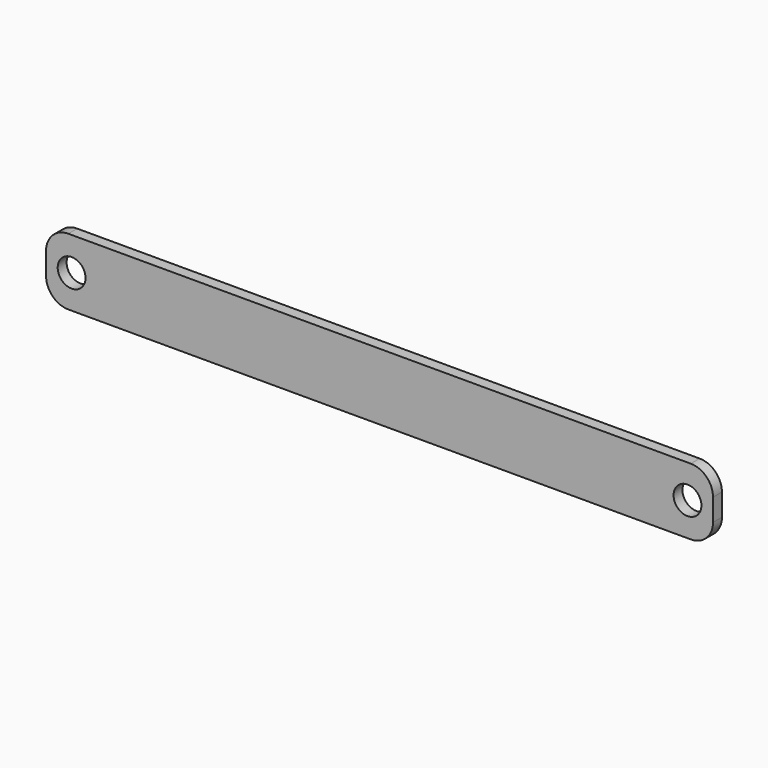
from build123d import *

# Parameters (mm, degrees)
F0_W     = 152.4
F0_H     = 15.24
F1_DEPTH = 2.54
F2_R     = 5.08
F3_R     = 3.180059
F4_DEPTH = 25.4


with BuildPart() as f1:
    # F0 (on Front) → F1 (new body)
    with BuildSketch(Plane.XZ):
        Rectangle(F0_W, F0_H)
    extrude(amount=F1_DEPTH)

    # F2
    f2_edges = [f1.edges().sort_by_distance(p)[0] for p in [
        (-76.2, -1.27, 7.62),
        (-76.2, -1.27, -7.62),
        (76.2, -1.27, 7.62),
        (76.2, -1.27, -7.62),
    ]]
    fillet(f2_edges, radius=F2_R)

    # F3 (on face) → F4 (cut)
    with BuildSketch(Plane.XZ.offset(2.54)):
        with Locations((-70.363984, 0)):
            Circle(F3_R)
        with Locations((70.363984, 0)):
            Circle(F3_R)
    extrude(amount=-F4_DEPTH, mode=Mode.SUBTRACT)


solid = f1.part
